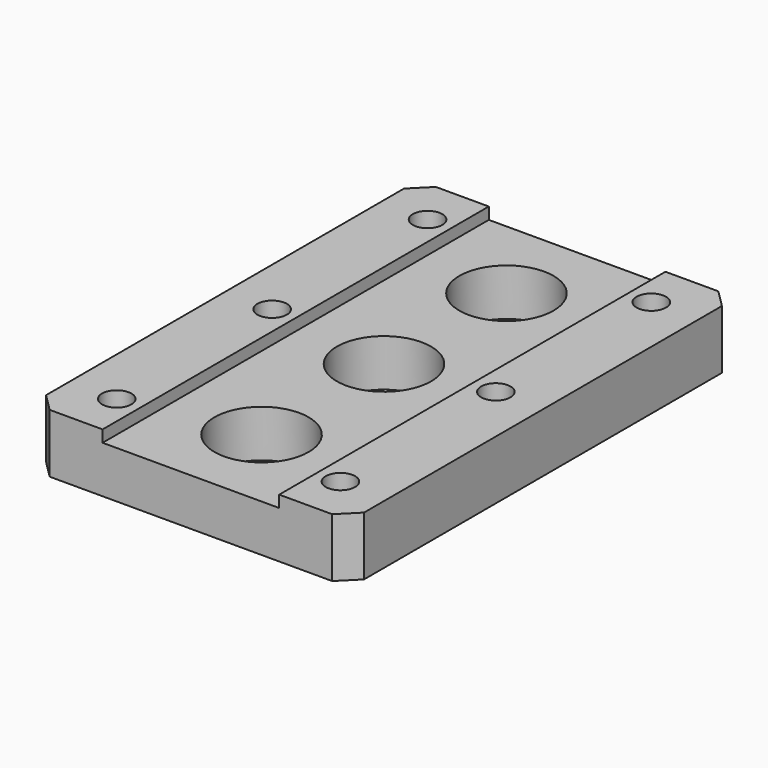
from build123d import *

# Parameters (mm, degrees)
F0_W     = 54
F0_H     = 82
F0_R     = 2.5
F0_R_2   = 8
F1_DEPTH = 10
F2_SIZE  = 3
F3_W     = 30
F3_H     = 82
F4_DEPTH = 2
F5_R     = 8
F6_DEPTH = 25


with BuildPart() as f1:
    # F0 (on Top) → F1 (new body)
    with BuildSketch(Plane.XY):
        Rectangle(F0_W, F0_H)
        with Locations((-19, -33)):
            Circle(F0_R, mode=Mode.SUBTRACT)
        with Locations((0, -26)):
            Circle(F0_R_2, mode=Mode.SUBTRACT)
        with Locations((19, -33)):
            Circle(F0_R, mode=Mode.SUBTRACT)
        with Locations((-19, 0)):
            Circle(F0_R, mode=Mode.SUBTRACT)
        with Locations((-19, 33)):
            Circle(F0_R, mode=Mode.SUBTRACT)
        with Locations((19, 0)):
            Circle(F0_R, mode=Mode.SUBTRACT)
        with Locations((0, 26)):
            Circle(F0_R_2, mode=Mode.SUBTRACT)
        with Locations((19, 33)):
            Circle(F0_R, mode=Mode.SUBTRACT)
    extrude(amount=F1_DEPTH)

    # F2
    f2_edges = [f1.edges().sort_by_distance(p)[0] for p in [
        (27, -41, 5),
        (-27, -41, 5),
        (27, 41, 5),
        (-27, 41, 5),
    ]]
    chamfer(f2_edges, length=F2_SIZE)

    # F3 (on face) → F4 (cut)
    with BuildSketch(Plane.XY.offset(10)):
        Rectangle(F3_W, F3_H)
    extrude(amount=-F4_DEPTH, mode=Mode.SUBTRACT)

    # F5 (on face) → F6 (cut)
    with BuildSketch(Plane.XY.offset(8)):
        Circle(F5_R)
    extrude(amount=-F6_DEPTH, mode=Mode.SUBTRACT)


solid = f1.part
